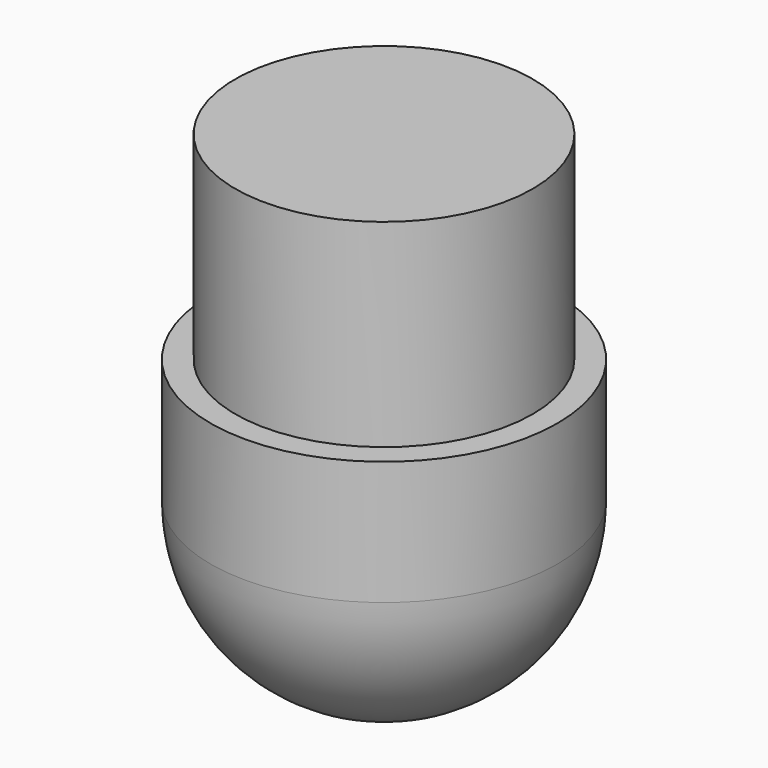
from build123d import *

# Parameters (mm, degrees)
F0_R     = 15
F1_DEPTH = 20
F0_R_2   = 17.5
F2_DEPTH = 30
F3_R     = 17.5


with BuildPart() as f1:
    # F0 (on Top) → F1 (new body)
    with BuildSketch(Plane.XY):
        with Locations((-56.118038, 20.091644)):
            Circle(F0_R)
    extrude(amount=F1_DEPTH)

    # F0 (on Top) → F2 (join)
    with BuildSketch(Plane.XY):
        with Locations((-56.118038, 20.091644)):
            Circle(F0_R_2)
        with Locations((-56.118038, 20.091644)):
            Circle(F0_R, mode=Mode.SUBTRACT)
        with Locations((-56.118038, 20.091644)):
            Circle(F0_R)
    extrude(amount=-F2_DEPTH)

    # F3
    f3_edges = [f1.edges().sort_by_distance(p)[0] for p in [
        (-73.618038, 20.091644, -30),
    ]]
    fillet(f3_edges, radius=F3_R)


solid = f1.part
